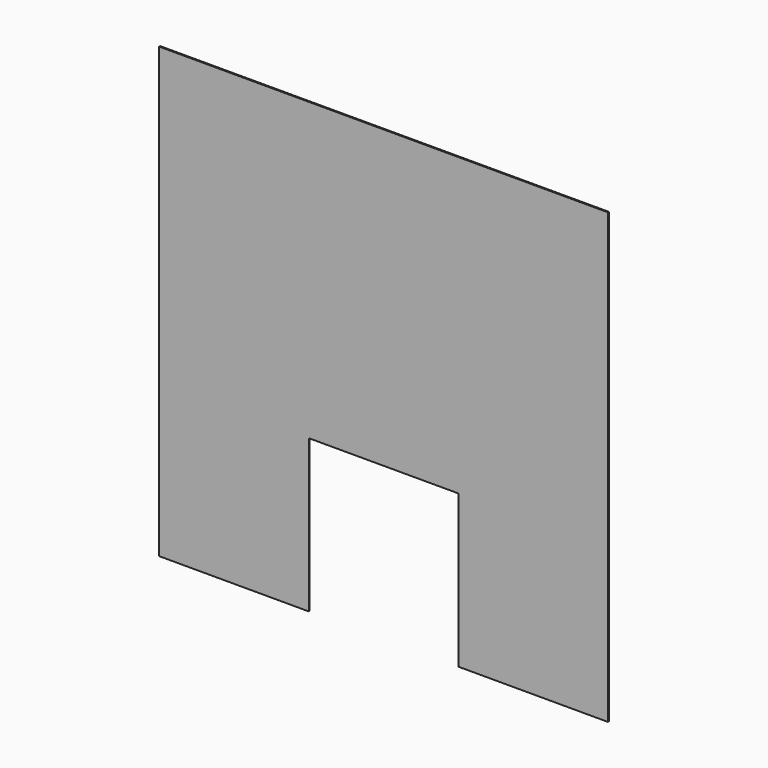
from build123d import *

# Parameters (mm, degrees)
F0_W     = 1270
F0_H     = 1270
F1_DEPTH = 1.5875
F2_W     = 423.164
F2_H     = 431.8
F3_DEPTH = 3.176


with BuildPart() as f1:
    # F0 (on Front) → F1 (new body, symmetric)
    with BuildSketch(Plane.XZ):
        with Locations((-0.489235, 87.176618)):
            Rectangle(F0_W, F0_H)
    extrude(amount=F1_DEPTH, both=True)

    # F2 (on face) → F3 (cut, through all)
    with BuildSketch(Plane.XZ.offset(1.5875)):
        with Locations((-0.489235, -331.923382)):
            Rectangle(F2_W, F2_H)
    extrude(amount=-F3_DEPTH, mode=Mode.SUBTRACT)


solid = f1.part
